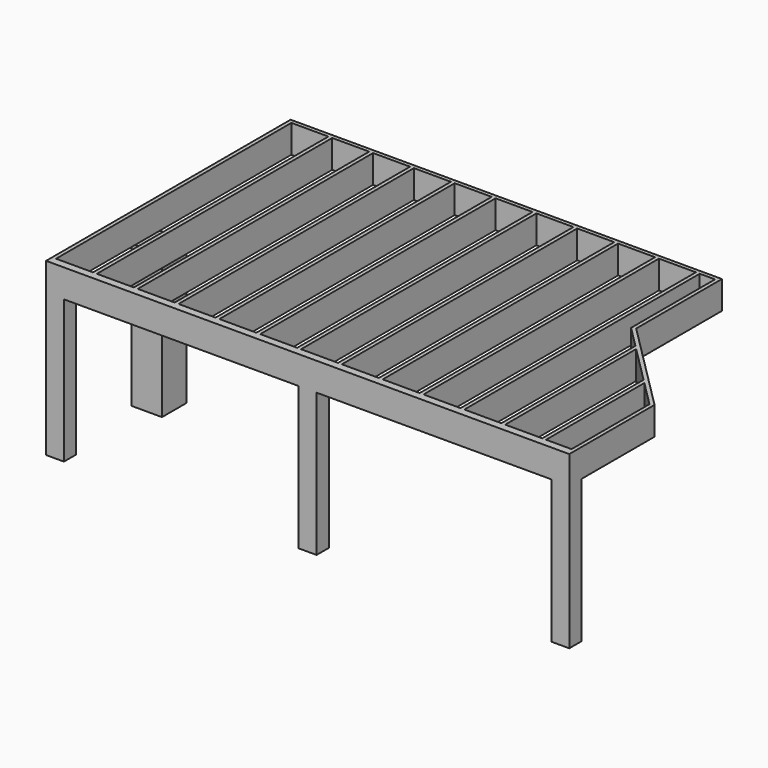
from build123d import *

# Parameters (mm, degrees)
F0_W     = 304.8
F0_H     = 304.8
F1_DEPTH = 1422.4
F0_W_2   = 177.8
F0_H_2   = 152.4
F3_DEPTH = 279.4
F4_W     = 5130.8
F4_H     = 38.1
F5_DEPTH = 279.4
F6_W     = 38.1
F6_H     = 2927.8466365912
F7_DEPTH = 279.4


with BuildPart() as f1:
    # F0 (on Top) → F1 (new body)
    with BuildSketch(Plane.XY):
        with Locations((152.4, -1828.8)):
            Rectangle(F0_W, F0_H)
    extrude(amount=F1_DEPTH)



with BuildPart() as f1b:
    # F0 (on Top) → F1, piece 2 (new body)
    with BuildSketch(Plane.XY):
        with Locations((88.9, -2965.9466365912)):
            Rectangle(F0_W_2, F0_H_2)
    extrude(amount=F1_DEPTH)


with BuildPart() as f1c:
    # F0 (on Top) → F1, piece 3 (new body)
    with BuildSketch(Plane.XY):
        with Locations((2603.5, -2965.9466365912)):
            Rectangle(F0_W_2, F0_H_2)
    extrude(amount=F1_DEPTH)


with BuildPart() as f1d:
    # F0 (on Top) → F1, piece 4 (new body)
    with BuildSketch(Plane.XY):
        with Locations((5118.1, -2965.9466365912)):
            Rectangle(F0_W_2, F0_H_2)
    extrude(amount=F1_DEPTH)


with BuildPart() as f1_1:
    add(f1.part)

    add(f1b.part)  # F3 merges F1b

    add(f1c.part)  # F3 merges F1c

    add(f1d.part)  # F3 merges F1d
    # F2 (on face) → F3 (join)
    with BuildSketch(Plane.XY.offset(1422.4)):
        Polygon((4292.6, 0), (0, 0), (0, -3042.1466365912), (5207, -3042.1466365912), (5207, -1981.2), (4292.6, -1066.8), align=None)
        Polygon((38.1, -38.1), (4254.5, -38.1), (4254.5, -1082.5815367264), (5168.9, -1996.9815367264), (5168.9, -3004.0466365912), (38.1, -3004.0466365912), align=None, mode=Mode.SUBTRACT)
    extrude(amount=F3_DEPTH)

    # F4 (on face) → F5 (join, through all)
    with BuildSketch(Plane.XY.offset(1422.4)):
        with Locations((2603.5, -2984.9966365912)):
            Rectangle(F4_W, F4_H)
    extrude(amount=F5_DEPTH)

    # F6 (on face) → F7 (join, through all)
    with BuildSketch(Plane.XY.offset(1422.4)):
        with Locations((425.45, -1502.0233182956)):
            Rectangle(F6_W, F6_H)
        with Locations((831.85, -1502.0233182956)):
            Rectangle(F6_W, F6_H)
        with Locations((1238.25, -1502.0233182956)):
            Rectangle(F6_W, F6_H)
        with Locations((1644.65, -1502.0233182956)):
            Rectangle(F6_W, F6_H)
        with Locations((2051.05, -1502.0233182956)):
            Rectangle(F6_W, F6_H)
        with Locations((2457.45, -1502.0233182956)):
            Rectangle(F6_W, F6_H)
        with Locations((2863.85, -1502.0233182956)):
            Rectangle(F6_W, F6_H)
        with Locations((3270.25, -1502.0233182956)):
            Rectangle(F6_W, F6_H)
        with Locations((3676.65, -1502.0233182956)):
            Rectangle(F6_W, F6_H)
        with Locations((4083.05, -1502.0233182956)):
            Rectangle(F6_W, F6_H)
        Polygon((4470.4, -1298.4815367264), (4470.4, -2965.9466365912), (4508.5, -2965.9466365912), (4508.5, -1336.5815367264), align=None)
        Polygon((4876.8, -1704.8815367264), (4876.8, -2965.9466365912), (4914.9, -2965.9466365912), (4914.9, -1742.9815367264), align=None)
    extrude(amount=F7_DEPTH)


solid = f1_1.part
